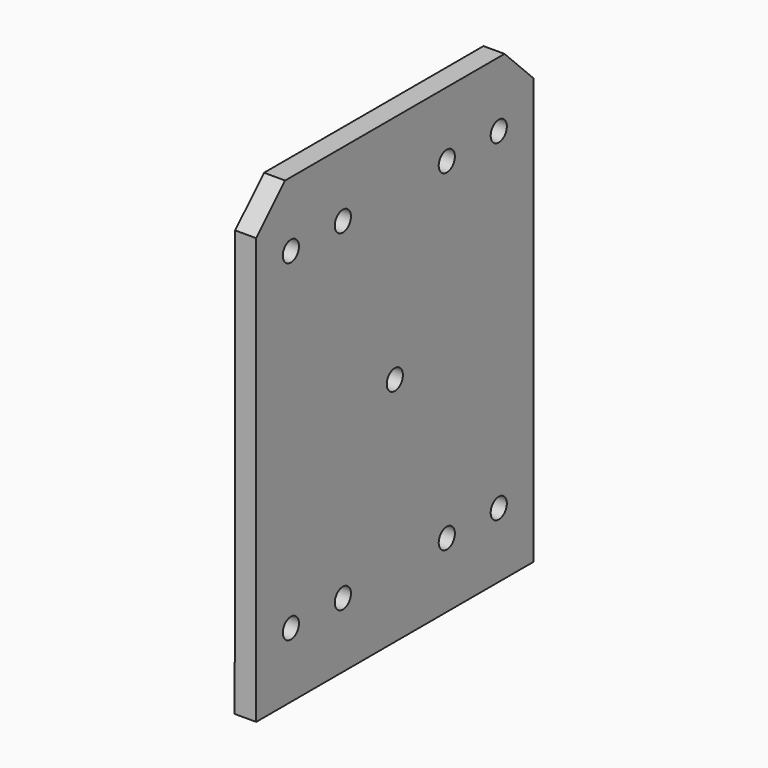
from build123d import *

# Parameters (mm, degrees)
F1_DEPTH = 19.05
F2_R     = 8.89
F3_DEPTH = 96.012
F4_W     = 304.8
F4_H     = 366.342949
F5_DEPTH = 0.508


with BuildPart() as f1:
    # F0 (on Right) → F1 (new body)
    with BuildSketch(Plane.YZ):
        Polygon((-152.4, -203.2), (152.4, -203.2), (152.4, 171.45), (120.65, 203.2), (-120.65, 203.2), (-152.4, 171.45), align=None)
    extrude(amount=F1_DEPTH)

    # F2 (on face) → F3 (cut)
    with BuildSketch(Plane.YZ.offset(19.05)):
        with Locations((-57.15, 146.000296)):
            Circle(F2_R)
        with Locations((-114.3, 146.000296)):
            Circle(F2_R)
        Circle(F2_R)
        with Locations((-57.15, -146.000296)):
            Circle(F2_R)
        with Locations((-114.3, -146.000296)):
            Circle(F2_R)
        with Locations((57.15, 146.000296)):
            Circle(F2_R)
        with Locations((114.3, 146.000296)):
            Circle(F2_R)
        with Locations((57.15, -146.000296)):
            Circle(F2_R)
        with Locations((114.3, -146.000296)):
            Circle(F2_R)
    extrude(amount=-F3_DEPTH, mode=Mode.SUBTRACT)

    # F4 (on face) → F5 (cut)
    with BuildSketch(Plane(origin=(0, 0, 0), x_dir=(0, -1, 0), z_dir=(-1, 0, 0))):
        with Locations((0, 20.028526)):
            Rectangle(F4_W, F4_H)
    extrude(amount=-F5_DEPTH, mode=Mode.SUBTRACT)


solid = f1.part
